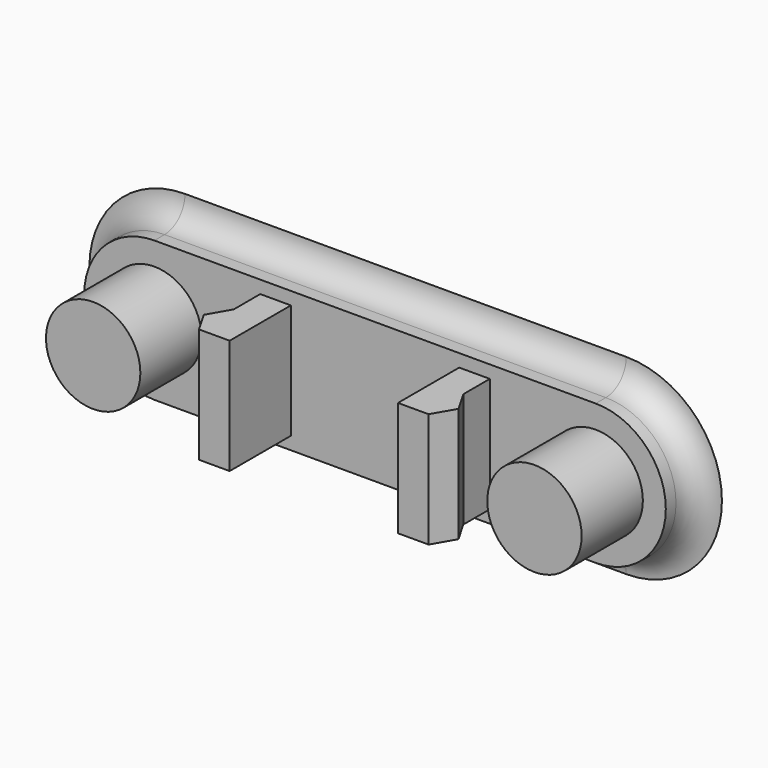
from build123d import *

# Parameters (mm, degrees)
SKETCH017_R      = 1.85
SKETCH017_W      = 1.2
SKETCH017_H      = 4.5
EXTRUDE022_DEPTH = 3
EXTRUDE023_DEPTH = 4.5
EXTRUDE021_DEPTH = 1.5


with BuildPart() as extrude022:
    # Sketch017 (on Face5 of Extrude021) → Extrude022 (new body)
    with BuildSketch(Plane.XZ.offset(-150.4)):
        with Locations((29.2, -30)):
            Circle(SKETCH017_R)
        with Locations((46.5, -30)):
            Circle(SKETCH017_R)
        with Locations((33.95, -30)):
            Rectangle(SKETCH017_W, SKETCH017_H)
        with Locations((41.75, -30)):
            Rectangle(SKETCH017_W, SKETCH017_H)
    extrude(amount=EXTRUDE022_DEPTH)


with BuildPart() as extrude023:
    # Sketch018 (on Face8 of Extrude022) → Extrude023 (new body)
    with BuildSketch(Plane.XY.offset(-27.75)):
        Polygon((33.35, 147.4), (33.35, 149.1), (32.859252, 148.25), align=None)
        Polygon((42.35, 147.4), (42.35, 149.1), (42.840748, 148.25), align=None)
    extrude(amount=-EXTRUDE023_DEPTH)


with BuildPart() as sweep_body:
    # Sweep: sweep along a path in Sketch020
    with BuildLine(Plane.XZ.offset(-150.4)) as sweep_path:
        Line((46.5, -27.25), (29.2, -27.25))
        ThreePointArc((29.200001, -27.25), (26.45, -30), (29.2, -32.75))
        Line((29.2, -32.75), (46.5, -32.75))
        ThreePointArc((46.5, -32.75), (49.25, -29.999999), (46.499999, -27.25))
    # Sketch019 (on Vertex5 of Extrude021) → Sweep (sweep)
    with BuildSketch(Plane(origin=(46.5, 150.4, -27.25), x_dir=(0, 1, 0), z_dir=(1, 0, 0))):
        with BuildLine():
            Line((0.5, 0), (1.5, 0))
            Line((1.5, 0), (1.5, 1))
            ThreePointArc((0.5, 0), (1.207107, 0.292893), (1.5, 1))
        make_face()
    sweep(path=sweep_path.line, is_frenet=True)


with BuildPart() as usb_cover:
    # Sketch016 (on Face14 of Fusion014) → Extrude021 (new body)
    with BuildSketch(Plane(origin=(68, 151.9, 0), x_dir=(-1, 0, 0), z_dir=(0, 1, 0))):
        with BuildLine():
            Line((38.8, -27.25), (21.5, -27.25))
            ThreePointArc((21.5, -27.25), (18.75, -30), (21.5, -32.75))
            Line((38.8, -32.75), (21.5, -32.75))
            ThreePointArc((38.8, -32.75), (41.55, -30), (38.8, -27.25))
        make_face()
    extrude(amount=-EXTRUDE021_DEPTH)

    # Fusion071: union Extrude022, Extrude023, Sweep body
    add(extrude022.part)
    add(extrude023.part)
    add(sweep_body.part)


solid = usb_cover.part
